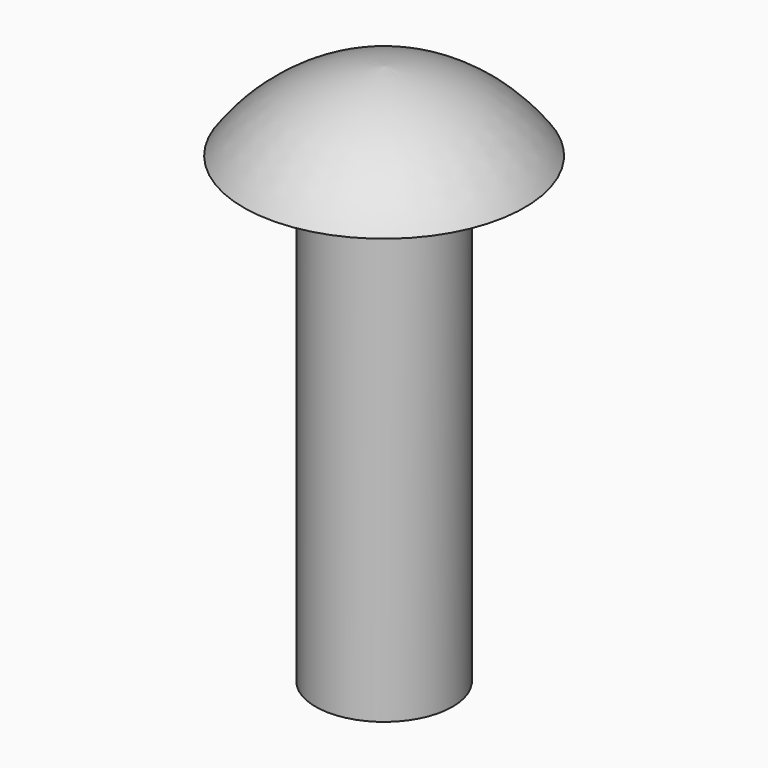
from build123d import *

# Parameters (mm, degrees)
F0_R     = 1.016
F1_DEPTH = 6.858


with BuildPart() as f1:
    # F0 (on Top) → F1 (new body)
    with BuildSketch(Plane.XY):
        Circle(F0_R)
    extrude(amount=-F1_DEPTH)

    # F2 (on Front) → F3 (revolve)
    with BuildSketch(Plane.XZ):
        with BuildLine():
            Line((-2.0828, 0), (0, 0))
            Line((0, 0), (0, 1.1684))
            ThreePointArc((0, 1.1684), (-1.172995, 0.818782), (-2.0828, 0))
        make_face()
    revolve(axis=Axis((0, 0, 0.5842), (0, 0, 1)))


solid = f1.part
